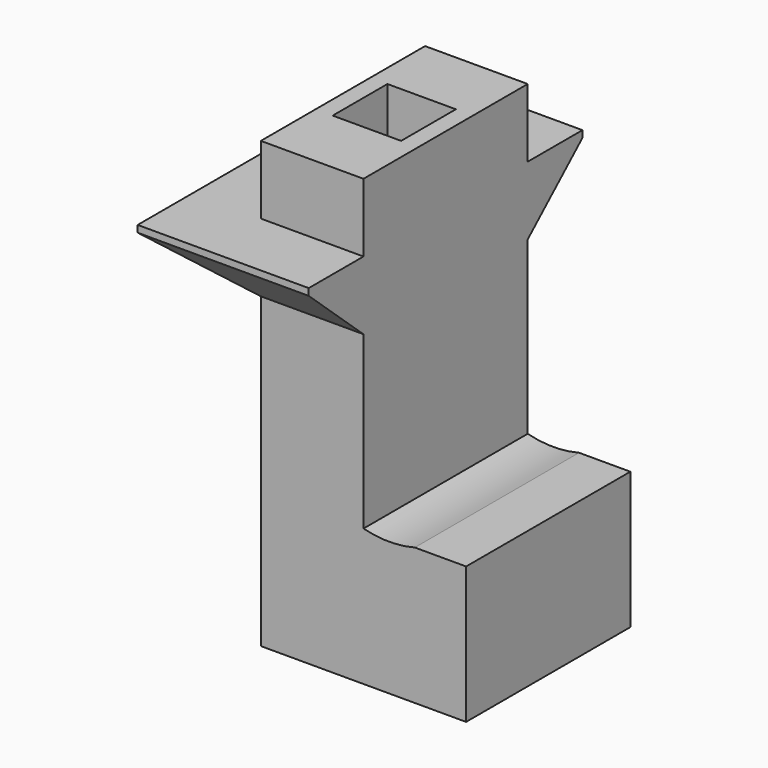
from build123d import *

# Parameters (mm, degrees)
F0_W      = 38.1
F0_H      = 76.2
F1_DEPTH  = 177.8
F2_W      = 76.2
F2_H      = 25.4
F3_DEPTH  = 25.4
F5_DEPTH  = 25.4
F7_DEPTH  = 25.4
F9_DEPTH  = 228.6
F11_DEPTH = 228.6
F12_W     = 38.1
F12_H     = 76.2
F13_DEPTH = 25.4
F14_W     = 25.4
F14_H     = 25.4
F15_DEPTH = 228.6
F16_W     = 76.2
F16_H     = 50.8
F17_DEPTH = 38.1
F19_DEPTH = 228.6
F20_W     = 38.1
F20_H     = 76.2
F20_W_2   = 25.4
F20_H_2   = 25.4
F21_DEPTH = 38.1


with BuildPart() as f1:
    # F0 (on Top) → F1 (new body)
    with BuildSketch(Plane.XY):
        Rectangle(F0_W, F0_H)
    extrude(amount=F1_DEPTH)

    # F2 (on face) → F3 (join)
    with BuildSketch(Plane(origin=(-19.05, 0, 0), x_dir=(0, -1, 0), z_dir=(-1, 0, 0))):
        with Locations((0, 127)):
            Rectangle(F2_W, F2_H)
    extrude(amount=F3_DEPTH)

    # F4 (on face) → F5 (join)
    with BuildSketch(Plane.XZ.offset(38.1)):
        Polygon((-44.45, 139.7), (-44.45, 114.3), (-19.05, 114.3), (19.05, 114.3), (19.05, 139.7), (-19.05, 139.7), align=None)
    extrude(amount=F5_DEPTH)

    # F6 (on face) → F7 (join)
    with BuildSketch(Plane(origin=(0, 38.1, 0), x_dir=(-1, 0, 0), z_dir=(0, 1, 0))):
        Polygon((44.45, 114.3), (44.45, 139.7), (19.05, 139.7), (-19.05, 139.7), (-19.05, 114.3), (19.05, 114.3), align=None)
    extrude(amount=F7_DEPTH)

    # F8 (on face) → F9 (cut)
    with BuildSketch(Plane.YZ.offset(19.05)):
        Polygon((-38.1, 114.3), (-63.5, 137.16), (-63.5, 114.3), align=None)
        Polygon((63.5, 137.16), (38.1, 114.3), (63.5, 114.3), align=None)
    extrude(amount=-F9_DEPTH, mode=Mode.SUBTRACT)

    # F10 (on face) → F11 (cut)
    with BuildSketch(Plane.XZ.offset(63.5)):
        Polygon((-19.05, 114.3), (-44.45, 137.16), (-44.45, 114.3), align=None)
    extrude(amount=-F11_DEPTH, mode=Mode.SUBTRACT)

    # F12 (on face) → F13 (join)
    with BuildSketch(Plane.XY.offset(177.8)):
        Rectangle(F12_W, F12_H)
    extrude(amount=F13_DEPTH)

    # F14 (on face) → F15 (cut)
    with BuildSketch(Plane.XY.offset(203.2)):
        Rectangle(F14_W, F14_H)
    extrude(amount=-F15_DEPTH, mode=Mode.SUBTRACT)

    # F16 (on face) → F17 (join)
    with BuildSketch(Plane.YZ.offset(19.05)):
        with Locations((0, 25.4)):
            Rectangle(F16_W, F16_H)
    extrude(amount=F17_DEPTH)

    # F18 (on face) → F19 (cut)
    with BuildSketch(Plane.XZ.offset(38.1)):
        with BuildLine():
            Line((38.1, 50.8), (19.05, 50.8))
            ThreePointArc((19.05, 50.8), (28.575, 49.5901663726), (38.1, 50.8))
        make_face()
    extrude(amount=-F19_DEPTH, mode=Mode.SUBTRACT)

    # F20 (on face) → F21 (cut)
    with BuildSketch(Plane.XY.offset(203.2)):
        Rectangle(F20_W, F20_H)
        Rectangle(F20_W_2, F20_H_2, mode=Mode.SUBTRACT)
    extrude(amount=-F21_DEPTH, mode=Mode.SUBTRACT)


solid = f1.part
